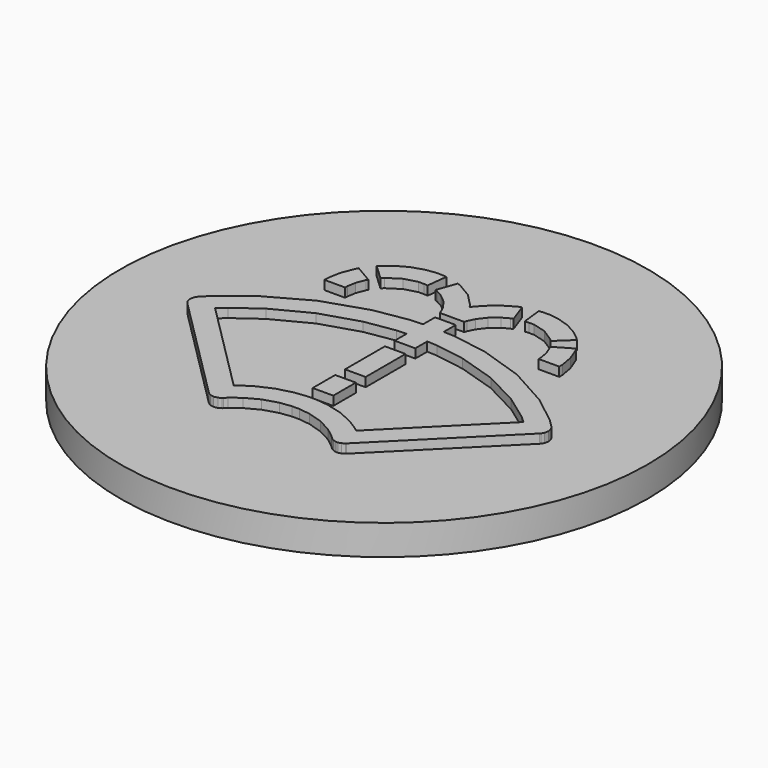
from build123d import *

# Parameters (mm, degrees)
F2_R     = 2
F2_W     = 0.15626
F2_H     = 0.213542
F2_H_2   = 0.37792
F3_DEPTH = 0.2285714286
F4_DEPTH = 0.0685714286
F5_SCALE = 8.75


with BuildPart() as f3:
    # F2 (on Top) → F3 (new body)
    with BuildSketch(Plane.XY):
        Circle(F2_R)
        Polygon((0.07818, 0.580948), (0.07818, 0.467078), (0.16574, 0.463548), (0.42729, 0.420408), (0.75781, 0.311088), (1.06267, 0.141918), (1.27262, -0.021862), (1.3349, -0.084152), (1.34028, -0.089522), (1.35204, -0.109972), (1.35775, -0.139372), (1.35204, -0.168782), (1.34028, -0.189292), (1.3349, -0.194662), (0.52169, -1.007867), (0.51801, -1.011502), (0.49631, -1.02474), (0.47385, -1.030708), (0.46642, -1.030708), (0.45893, -1.030708), (0.43653, -1.02474), (0.41482, -1.011502), (0.41118, -1.007867), (0.39094, -0.987631), (0.32243, -0.934896), (0.22265, -0.881456), (0.11431, -0.848633), (0.02853, -0.837512), (0, -0.837512), (-0.02859, -0.837512), (-0.11437, -0.848633), (-0.22266, -0.881456), (-0.32248, -0.934842), (-0.391007, -0.987576), (-0.41119, -1.007813), (-0.416561, -1.013184), (-0.437068, -1.024958), (-0.466419, -1.030708), (-0.495825, -1.024958), (-0.516333, -1.013184), (-0.52165, -1.007813), (-1.334855, -0.194662), (-1.338544, -0.190972), (-1.351836, -0.169272), (-1.35775, -0.146812), (-1.35775, -0.139372), (-1.35775, -0.131892), (-1.351836, -0.109482), (-1.338544, -0.087782), (-1.334855, -0.084152), (-1.272572, -0.021862), (-1.062665, 0.141918), (-0.757815, 0.311088), (-0.427303, 0.420408), (-0.16575, 0.463548), (-0.07813, 0.467078), (-0.07813, 0.580948), align=None, mode=Mode.SUBTRACT)
        Polygon((-0.823842, 0.790088), (-0.688858, 0.711478), (-0.696129, 0.699058), (-0.721844, 0.632328), (-0.733075, 0.568308), (-0.733075, 0.546938), (-0.889325, 0.546938), (-0.889325, 0.578508), (-0.872669, 0.673078), (-0.834583, 0.771758), align=None, mode=Mode.SUBTRACT)
        Polygon((-0.396215, 0.874458), (-0.405601, 0.874458), (-0.438154, 0.874458), (-0.53581, 0.847768), (-0.628746, 0.787758), (-0.644371, 0.771048), (-0.758303, 0.878028), (-0.741485, 0.895988), (-0.683487, 0.942828), (-0.597713, 0.990778), (-0.504072, 1.020508), (-0.430232, 1.030708), (-0.405601, 1.030708), (-0.392961, 1.030708), (-0.35498, 1.028098), (-0.35043, 1.027558), (-0.368058, 0.872338), (-0.37115, 0.872728), align=None, mode=Mode.SUBTRACT)
        Polygon((0.09244, 0.643078), (-0.0924, 0.643078), (-0.09798, 0.661238), (-0.12327, 0.713008), (-0.169, 0.773378), (-0.22732, 0.821728), (-0.278, 0.849278), (-0.29585, 0.855628), (-0.24349, 1.002818), (-0.21832, 0.993868), (-0.10547, 0.926098), (-0.01438, 0.832258), (0, 0.810228), (0.01432, 0.832258), (0.10547, 0.926098), (0.21826, 0.993868), (0.24349, 1.002818), (0.29585, 0.855628), (0.27794, 0.849278), (0.22726, 0.821728), (0.169, 0.773378), (0.12326, 0.713008), (0.09799, 0.661238), align=None, mode=Mode.SUBTRACT)
        Polygon((0.88938, 0.546938), (0.73313, 0.546938), (0.73313, 0.568308), (0.72183, 0.632328), (0.69612, 0.699058), (0.6889, 0.711478), (0.82389, 0.790088), (0.83458, 0.771758), (0.87267, 0.673078), (0.88938, 0.578508), align=None, mode=Mode.SUBTRACT)
        Polygon((0.43815, 0.874458), (0.40565, 0.874458), (0.39703, 0.874458), (0.37119, 0.872728), (0.36811, 0.872338), (0.35047, 1.027558), (0.35503, 1.028098), (0.39182, 1.030708), (0.40565, 1.030708), (0.43022, 1.030708), (0.50407, 1.020508), (0.59771, 0.990778), (0.68349, 0.942828), (0.74149, 0.895988), (0.75835, 0.878028), (0.64442, 0.771048), (0.62874, 0.787758), (0.53581, 0.847768), align=None, mode=Mode.SUBTRACT)
        Polygon((0.16574, 0.463548), (0.07818, 0.467078), (0.07818, 0.580948), (-0.07813, 0.580948), (-0.07813, 0.467078), (-0.16575, 0.463548), (-0.427303, 0.420408), (-0.757815, 0.311088), (-1.062665, 0.141918), (-1.272572, -0.021862), (-1.334855, -0.084152), (-1.338544, -0.087782), (-1.351836, -0.109482), (-1.35775, -0.131892), (-1.35775, -0.139372), (-1.35775, -0.146812), (-1.351836, -0.169272), (-1.338544, -0.190972), (-1.334855, -0.194662), (-0.52165, -1.007813), (-0.516333, -1.013184), (-0.495825, -1.024958), (-0.466419, -1.030708), (-0.437068, -1.024958), (-0.416561, -1.013184), (-0.41119, -1.007813), (-0.391007, -0.987576), (-0.32248, -0.934842), (-0.22266, -0.881456), (-0.11437, -0.848633), (-0.02859, -0.837512), (0, -0.837512), (0.02853, -0.837512), (0.11431, -0.848633), (0.22265, -0.881456), (0.32243, -0.934896), (0.39094, -0.987631), (0.41118, -1.007867), (0.41482, -1.011502), (0.43653, -1.02474), (0.45893, -1.030708), (0.46642, -1.030708), (0.47385, -1.030708), (0.49631, -1.02474), (0.51801, -1.011502), (0.52169, -1.007867), (1.3349, -0.194662), (1.34028, -0.189292), (1.35204, -0.168782), (1.35775, -0.139372), (1.35204, -0.109972), (1.34028, -0.089522), (1.3349, -0.084152), (1.27262, -0.021862), (1.06267, 0.141918), (0.75781, 0.311088), (0.42729, 0.420408), align=None)
        Polygon((1.16797, -0.140622), (0.4636, -0.844998), (0.43935, -0.825305), (0.35992, -0.774631), (0.24674, -0.723308), (0.12608, -0.691895), (0.03151, -0.681262), (0, -0.681262), (-0.03152, -0.681262), (-0.12609, -0.691895), (-0.24675, -0.723308), (-0.359975, -0.774631), (-0.439347, -0.825359), (-0.463544, -0.844998), (-1.167917, -0.140622), (-1.112415, -0.089732), (-0.928062, 0.043558), (-0.662981, 0.181588), (-0.377932, 0.271378), (-0.15338, 0.307448), (-0.07813, 0.310768), (-0.07813, 0.197638), (0.07813, 0.197638), (0.07813, 0.310768), (0.15332, 0.307448), (0.37793, 0.271378), (0.66297, 0.181588), (0.92806, 0.043558), (1.11242, -0.089732), align=None, mode=Mode.SUBTRACT)
        Polygon((0.43935, -0.825305), (0.4636, -0.844998), (1.16797, -0.140622), (1.11242, -0.089732), (0.92806, 0.043558), (0.66297, 0.181588), (0.37793, 0.271378), (0.15332, 0.307448), (0.07813, 0.310768), (0.07813, 0.197638), (-0.07813, 0.197638), (-0.07813, 0.310768), (-0.15338, 0.307448), (-0.377932, 0.271378), (-0.662981, 0.181588), (-0.928062, 0.043558), (-1.112415, -0.089732), (-1.167917, -0.140622), (-0.463544, -0.844998), (-0.439347, -0.825359), (-0.359975, -0.774631), (-0.24675, -0.723308), (-0.12609, -0.691895), (-0.03152, -0.681262), (0, -0.681262), (0.03151, -0.681262), (0.12608, -0.691895), (0.24674, -0.723308), (0.35992, -0.774631), align=None)
        with Locations((0, -0.472006)):
            Rectangle(F2_W, F2_H, mode=Mode.SUBTRACT)
        with Locations((0, -0.083502)):
            Rectangle(F2_W, F2_H_2, mode=Mode.SUBTRACT)
        Polygon((-0.09798, 0.661238), (-0.0924, 0.643078), (0.09244, 0.643078), (0.09799, 0.661238), (0.12326, 0.713008), (0.169, 0.773378), (0.22726, 0.821728), (0.27794, 0.849278), (0.29585, 0.855628), (0.24349, 1.002818), (0.21826, 0.993868), (0.10547, 0.926098), (0.01432, 0.832258), (0, 0.810228), (-0.01438, 0.832258), (-0.10547, 0.926098), (-0.21832, 0.993868), (-0.24349, 1.002818), (-0.29585, 0.855628), (-0.278, 0.849278), (-0.22732, 0.821728), (-0.169, 0.773378), (-0.12327, 0.713008), align=None)
        with Locations((0, -0.083502)):
            Rectangle(F2_W, F2_H_2)
        Polygon((0.39703, 0.874458), (0.40565, 0.874458), (0.43815, 0.874458), (0.53581, 0.847768), (0.62874, 0.787758), (0.64442, 0.771048), (0.75835, 0.878028), (0.74149, 0.895988), (0.68349, 0.942828), (0.59771, 0.990778), (0.50407, 1.020508), (0.43022, 1.030708), (0.40565, 1.030708), (0.39182, 1.030708), (0.35503, 1.028098), (0.35047, 1.027558), (0.36811, 0.872338), (0.37119, 0.872728), align=None)
        Polygon((-0.438154, 0.874458), (-0.405601, 0.874458), (-0.396215, 0.874458), (-0.37115, 0.872728), (-0.368058, 0.872338), (-0.35043, 1.027558), (-0.35498, 1.028098), (-0.392961, 1.030708), (-0.405601, 1.030708), (-0.430232, 1.030708), (-0.504072, 1.020508), (-0.597713, 0.990778), (-0.683487, 0.942828), (-0.741485, 0.895988), (-0.758303, 0.878028), (-0.644371, 0.771048), (-0.628746, 0.787758), (-0.53581, 0.847768), align=None)
        with Locations((0, -0.472006)):
            Rectangle(F2_W, F2_H)
        Polygon((-0.696129, 0.699058), (-0.688858, 0.711478), (-0.823842, 0.790088), (-0.834583, 0.771758), (-0.872669, 0.673078), (-0.889325, 0.578508), (-0.889325, 0.546938), (-0.733075, 0.546938), (-0.733075, 0.568308), (-0.721844, 0.632328), align=None)
        Polygon((0.73313, 0.568308), (0.73313, 0.546938), (0.88938, 0.546938), (0.88938, 0.578508), (0.87267, 0.673078), (0.83458, 0.771758), (0.82389, 0.790088), (0.6889, 0.711478), (0.69612, 0.699058), (0.72183, 0.632328), align=None)
    extrude(amount=-F3_DEPTH)

    # F2 (on Top) → F4 (join)
    with BuildSketch(Plane.XY):
        Polygon((0.16574, 0.463548), (0.07818, 0.467078), (0.07818, 0.580948), (-0.07813, 0.580948), (-0.07813, 0.467078), (-0.16575, 0.463548), (-0.427303, 0.420408), (-0.757815, 0.311088), (-1.062665, 0.141918), (-1.272572, -0.021862), (-1.334855, -0.084152), (-1.338544, -0.087782), (-1.351836, -0.109482), (-1.35775, -0.131892), (-1.35775, -0.139372), (-1.35775, -0.146812), (-1.351836, -0.169272), (-1.338544, -0.190972), (-1.334855, -0.194662), (-0.52165, -1.007813), (-0.516333, -1.013184), (-0.495825, -1.024958), (-0.466419, -1.030708), (-0.437068, -1.024958), (-0.416561, -1.013184), (-0.41119, -1.007813), (-0.391007, -0.987576), (-0.32248, -0.934842), (-0.22266, -0.881456), (-0.11437, -0.848633), (-0.02859, -0.837512), (0, -0.837512), (0.02853, -0.837512), (0.11431, -0.848633), (0.22265, -0.881456), (0.32243, -0.934896), (0.39094, -0.987631), (0.41118, -1.007867), (0.41482, -1.011502), (0.43653, -1.02474), (0.45893, -1.030708), (0.46642, -1.030708), (0.47385, -1.030708), (0.49631, -1.02474), (0.51801, -1.011502), (0.52169, -1.007867), (1.3349, -0.194662), (1.34028, -0.189292), (1.35204, -0.168782), (1.35775, -0.139372), (1.35204, -0.109972), (1.34028, -0.089522), (1.3349, -0.084152), (1.27262, -0.021862), (1.06267, 0.141918), (0.75781, 0.311088), (0.42729, 0.420408), align=None)
        Polygon((1.16797, -0.140622), (0.4636, -0.844998), (0.43935, -0.825305), (0.35992, -0.774631), (0.24674, -0.723308), (0.12608, -0.691895), (0.03151, -0.681262), (0, -0.681262), (-0.03152, -0.681262), (-0.12609, -0.691895), (-0.24675, -0.723308), (-0.359975, -0.774631), (-0.439347, -0.825359), (-0.463544, -0.844998), (-1.167917, -0.140622), (-1.112415, -0.089732), (-0.928062, 0.043558), (-0.662981, 0.181588), (-0.377932, 0.271378), (-0.15338, 0.307448), (-0.07813, 0.310768), (-0.07813, 0.197638), (0.07813, 0.197638), (0.07813, 0.310768), (0.15332, 0.307448), (0.37793, 0.271378), (0.66297, 0.181588), (0.92806, 0.043558), (1.11242, -0.089732), align=None, mode=Mode.SUBTRACT)
        with Locations((0, -0.083502)):
            Rectangle(F2_W, F2_H_2)
        with Locations((0, -0.472006)):
            Rectangle(F2_W, F2_H)
        Polygon((-0.09798, 0.661238), (-0.0924, 0.643078), (0.09244, 0.643078), (0.09799, 0.661238), (0.12326, 0.713008), (0.169, 0.773378), (0.22726, 0.821728), (0.27794, 0.849278), (0.29585, 0.855628), (0.24349, 1.002818), (0.21826, 0.993868), (0.10547, 0.926098), (0.01432, 0.832258), (0, 0.810228), (-0.01438, 0.832258), (-0.10547, 0.926098), (-0.21832, 0.993868), (-0.24349, 1.002818), (-0.29585, 0.855628), (-0.278, 0.849278), (-0.22732, 0.821728), (-0.169, 0.773378), (-0.12327, 0.713008), align=None)
        Polygon((-0.438154, 0.874458), (-0.405601, 0.874458), (-0.396215, 0.874458), (-0.37115, 0.872728), (-0.368058, 0.872338), (-0.35043, 1.027558), (-0.35498, 1.028098), (-0.392961, 1.030708), (-0.405601, 1.030708), (-0.430232, 1.030708), (-0.504072, 1.020508), (-0.597713, 0.990778), (-0.683487, 0.942828), (-0.741485, 0.895988), (-0.758303, 0.878028), (-0.644371, 0.771048), (-0.628746, 0.787758), (-0.53581, 0.847768), align=None)
        Polygon((-0.696129, 0.699058), (-0.688858, 0.711478), (-0.823842, 0.790088), (-0.834583, 0.771758), (-0.872669, 0.673078), (-0.889325, 0.578508), (-0.889325, 0.546938), (-0.733075, 0.546938), (-0.733075, 0.568308), (-0.721844, 0.632328), align=None)
        Polygon((0.39703, 0.874458), (0.40565, 0.874458), (0.43815, 0.874458), (0.53581, 0.847768), (0.62874, 0.787758), (0.64442, 0.771048), (0.75835, 0.878028), (0.74149, 0.895988), (0.68349, 0.942828), (0.59771, 0.990778), (0.50407, 1.020508), (0.43022, 1.030708), (0.40565, 1.030708), (0.39182, 1.030708), (0.35503, 1.028098), (0.35047, 1.027558), (0.36811, 0.872338), (0.37119, 0.872728), align=None)
        Polygon((0.73313, 0.568308), (0.73313, 0.546938), (0.88938, 0.546938), (0.88938, 0.578508), (0.87267, 0.673078), (0.83458, 0.771758), (0.82389, 0.790088), (0.6889, 0.711478), (0.69612, 0.699058), (0.72183, 0.632328), align=None)
    extrude(amount=F4_DEPTH)


with BuildPart() as f3_1:
    # F5: moved
    add(f3.part.scale(F5_SCALE))


solid = f3_1.part
